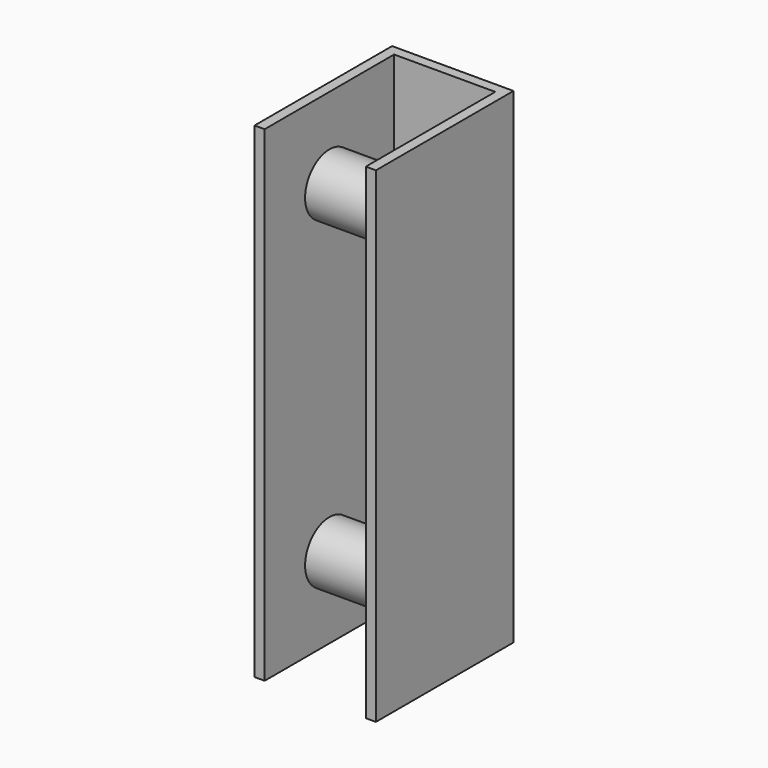
from build123d import *

# Parameters (mm, degrees)
F1_DEPTH      = 152.4
F1_DEPTH_BACK = 152.4
F2_R          = 19.05
F3_DEPTH      = 76.2


with BuildPart() as f1:
    # F0 (on Top) → F1 (new body, two sides)
    with BuildSketch(Plane.XY) as f1_sk:
        Polygon((-31.75, 50.8), (31.75, 50.8), (31.75, -50.8), (38.1, -50.8), (38.1, 57.15), (-38.1, 57.15), (-38.1, -50.8), (-31.75, -50.8), align=None)
    extrude(amount=F1_DEPTH)
    extrude(f1_sk.sketch, amount=-F1_DEPTH_BACK)

    # F2 (on face) → F3 (join)
    with BuildSketch(Plane(origin=(-38.1, 0, 0), x_dir=(0, -1, 0), z_dir=(-1, 0, 0))):
        with Locations((0, 101.6)):
            Circle(F2_R)
    extrude(amount=-F3_DEPTH)

    # F4: F1 across plane


with BuildPart() as f1_1:
    add(f1.part)
    add(f1.part.mirror(Plane.XY))


solid = f1_1.part
